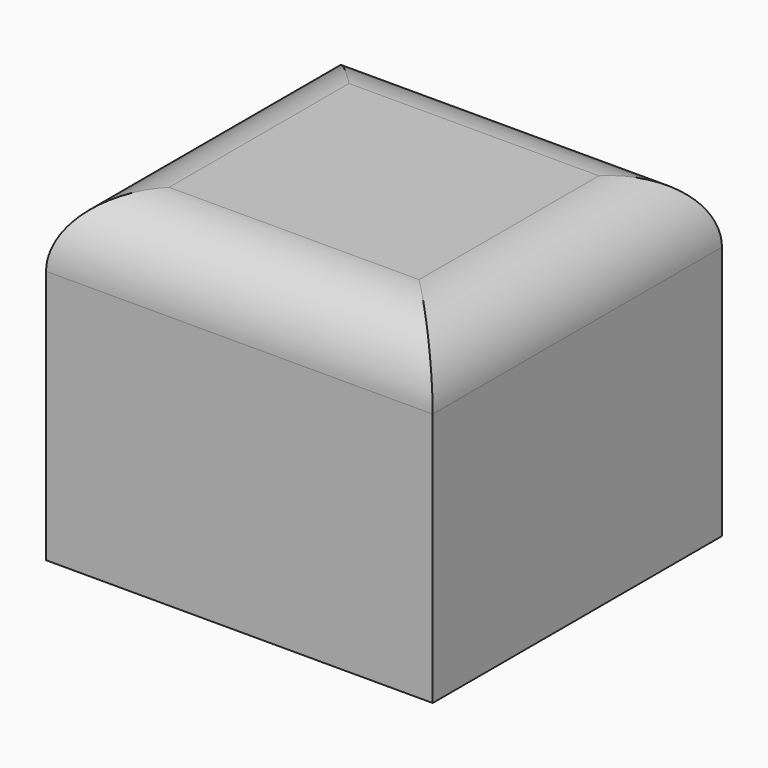
from build123d import *

# Parameters (mm, degrees)
F0_W     = 182.557866
F0_H     = 170.73226
F2_DEPTH = 152.4
F3_R     = 32.274979
F4_DEPTH = 187.378392


with BuildPart() as f2:
    # F0 (on Top) → F2 (new body)
    with BuildSketch(Plane.XY):
        with Locations((-43.606944, 41.759193)):
            Rectangle(F0_W, F0_H)
    extrude(amount=F2_DEPTH)

    # F3
    f3_edges = [f2.edges().sort_by_distance(p)[0] for p in [
        (-43.606944, 127.125323, 152.4),
        (47.671989, 41.759193, 152.4),
        (-43.606944, -43.606937, 152.4),
        (-134.885877, 41.759193, 152.4),
    ]]
    fillet(f3_edges, radius=F3_R)

    # F1 (on face) → F4 (cut)
    with BuildSketch(Plane.XY):
        Polygon((-134.885877, -43.606937), (-134.885877, 80.69703), (-209.891543, 80.69703), (-209.891543, -80.69703), (0, -80.69703), (0, -43.606937), align=None)
    extrude(amount=F4_DEPTH, mode=Mode.SUBTRACT)


solid = f2.part
